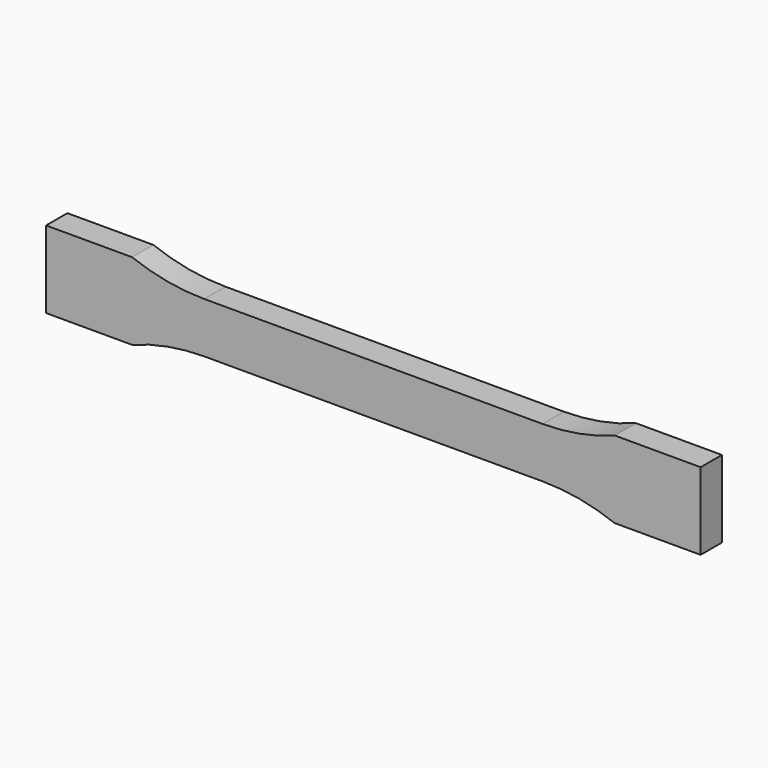
from build123d import *

# Parameters (mm, degrees)
F1_DEPTH = 10


with BuildPart() as f1:
    # F0 (on Front) → F1 (new body)
    with BuildSketch(Plane.XZ):
        with BuildLine():
            Line((63.575544, 9.5), (0, 9.5))
            Line((0, 9.5), (-63.575544, 9.5))
            ThreePointArc((-63.575544, 9.5), (-77.359592, 10.760452), (-90.686427, 14.5))
            Line((-90.686427, 14.5), (-123, 14.5))
            Line((-123, 14.5), (-123, -14.5))
            Line((-123, -14.5), (-90.686427, -14.5))
            ThreePointArc((-90.686427, -14.5), (-77.359592, -10.760452), (-63.575544, -9.5))
            Line((-63.575544, -9.5), (0, -9.5))
            Line((0, -9.5), (63.575544, -9.5))
            ThreePointArc((63.575544, -9.5), (77.359592, -10.760452), (90.686427, -14.5))
            Line((90.686427, -14.5), (123, -14.5))
            Line((123, -14.5), (123, 14.5))
            Line((123, 14.5), (90.686427, 14.5))
            ThreePointArc((90.686427, 14.5), (77.359592, 10.760452), (63.575544, 9.5))
        make_face()
    extrude(amount=F1_DEPTH)


solid = f1.part
